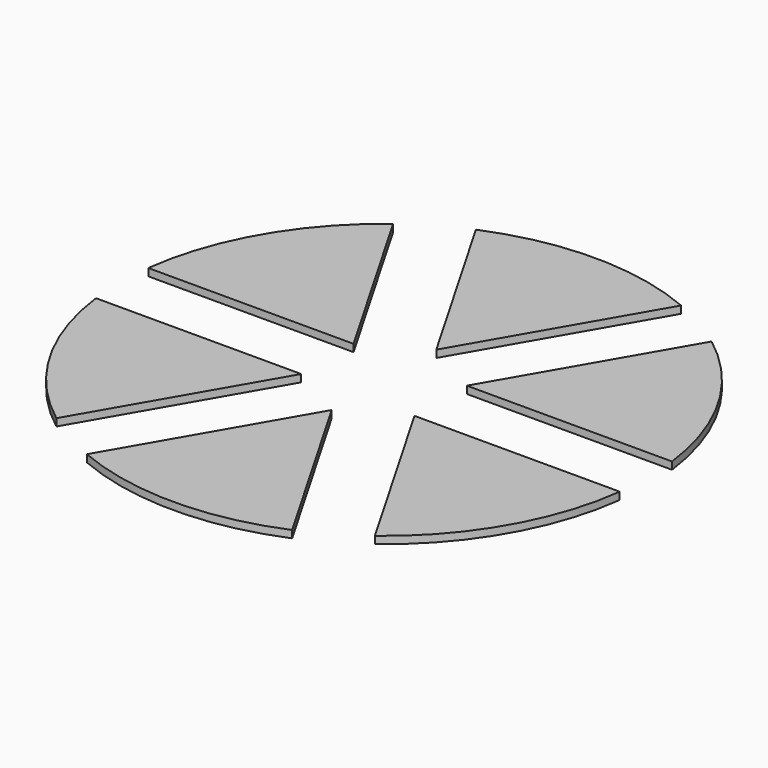
from build123d import *

# Parameters (mm, degrees)
F1_DEPTH = 25


with BuildPart() as f1:
    # F0 (on Top) → F1 (new body)
    with BuildSketch(Plane.XY):
        with BuildLine():
            Line((-193.0703308173, 111.4692074699), (-442.0690334252, 542.7476114056))
            ThreePointArc((-442.0690334252, 542.7476114056), (-606.2177826491, 350), (-691.0677360332, 111.4692074699))
            Line((-691.0677360332, 111.4692074699), (-193.0703308173, 111.4692074699))
        make_face()
        with BuildLine():
            ThreePointArc((-691.0677360332, 111.4692074699), (-606.2177826491, 350), (-442.0690334252, 542.7476114056))
            Line((-442.0690334252, 542.7476114056), (-543.0703308173, 717.686990119))
            ThreePointArc((-543.0703308172, 717.686990119), (-779.422863406, 450), (-893.0703308173, 111.4692074699))
            Line((-893.0703308173, 111.4692074699), (-691.0677360332, 111.4692074699))
        make_face()
    extrude(amount=F1_DEPTH)


with BuildPart() as f1b:
    # F0 (on Top) → F1, piece 2 (new body)
    with BuildSketch(Plane.XY):
        with BuildLine():
            Line((0, 222.9384149397), (248.998702608, 654.2168188755))
            ThreePointArc((248.998702608, 654.2168188755), (0, 700), (-248.998702608, 654.2168188755))
            Line((-248.998702608, 654.2168188755), (0, 222.9384149397))
        make_face()
        with BuildLine():
            ThreePointArc((-248.998702608, 654.2168188755), (0, 700), (248.998702608, 654.2168188755))
            Line((248.998702608, 654.2168188755), (350, 829.1561975888))
            ThreePointArc((350, 829.1561975889), (0, 900), (-350, 829.1561975888))
            Line((-350, 829.1561975888), (-248.998702608, 654.2168188755))
        make_face()
    extrude(amount=F1_DEPTH)


with BuildPart() as f1c:
    # F0 (on Top) → F1, piece 3 (new body)
    with BuildSketch(Plane.XY):
        with BuildLine():
            Line((193.0703308173, 111.4692074699), (691.0677360332, 111.4692074699))
            ThreePointArc((691.0677360332, 111.4692074699), (606.2177826491, 350), (442.0690334252, 542.7476114056))
            Line((442.0690334252, 542.7476114056), (193.0703308173, 111.4692074699))
        make_face()
        with BuildLine():
            ThreePointArc((442.0690334252, 542.7476114056), (606.2177826491, 350), (691.0677360332, 111.4692074699))
            Line((691.0677360332, 111.4692074699), (893.0703308173, 111.4692074699))
            ThreePointArc((893.0703308173, 111.4692074699), (779.422863406, 450), (543.0703308172, 717.686990119))
            Line((543.0703308173, 717.686990119), (442.0690334252, 542.7476114056))
        make_face()
    extrude(amount=F1_DEPTH)


with BuildPart() as f1d:
    # F0 (on Top) → F1, piece 4 (new body)
    with BuildSketch(Plane.XY):
        with BuildLine():
            ThreePointArc((442.0690334252, -542.7476114056), (606.2177826491, -350), (691.0677360332, -111.4692074699))
            Line((691.0677360332, -111.4692074699), (193.0703308173, -111.4692074699))
            Line((193.0703308173, -111.4692074699), (442.0690334252, -542.7476114056))
        make_face()
        with BuildLine():
            Line((893.0703308173, -111.4692074699), (691.0677360332, -111.4692074699))
            ThreePointArc((691.0677360332, -111.4692074699), (606.2177826491, -350), (442.0690334252, -542.7476114056))
            Line((442.0690334252, -542.7476114056), (543.0703308173, -717.686990119))
            ThreePointArc((543.0703308172, -717.686990119), (779.422863406, -450), (893.0703308173, -111.4692074699))
        make_face()
    extrude(amount=F1_DEPTH)


with BuildPart() as f1e:
    # F0 (on Top) → F1, piece 5 (new body)
    with BuildSketch(Plane.XY):
        with BuildLine():
            ThreePointArc((-248.998702608, -654.2168188755), (0, -700), (248.998702608, -654.2168188755))
            Line((248.998702608, -654.2168188755), (0, -222.9384149397))
            Line((0, -222.9384149397), (-248.998702608, -654.2168188755))
        make_face()
        with BuildLine():
            Line((350, -829.1561975888), (248.998702608, -654.2168188755))
            ThreePointArc((248.998702608, -654.2168188755), (0, -700), (-248.998702608, -654.2168188755))
            Line((-248.998702608, -654.2168188755), (-350, -829.1561975888))
            ThreePointArc((-350, -829.1561975889), (0, -900), (350, -829.1561975889))
        make_face()
    extrude(amount=F1_DEPTH)


with BuildPart() as f1f:
    # F0 (on Top) → F1, piece 6 (new body)
    with BuildSketch(Plane.XY):
        with BuildLine():
            Line((-543.0703308173, -717.686990119), (-442.0690334252, -542.7476114056))
            ThreePointArc((-442.0690334252, -542.7476114056), (-606.2177826491, -350), (-691.0677360332, -111.4692074699))
            Line((-691.0677360332, -111.4692074699), (-893.0703308172, -111.4692074699))
            ThreePointArc((-893.0703308173, -111.4692074699), (-779.422863406, -450), (-543.0703308172, -717.686990119))
        make_face()
        with BuildLine():
            ThreePointArc((-691.0677360332, -111.4692074699), (-606.2177826491, -350), (-442.0690334252, -542.7476114056))
            Line((-442.0690334252, -542.7476114056), (-193.0703308173, -111.4692074699))
            Line((-193.0703308173, -111.4692074699), (-691.0677360332, -111.4692074699))
        make_face()
    extrude(amount=F1_DEPTH)


solid = Compound([f1.part, f1b.part, f1c.part, f1d.part, f1e.part, f1f.part])
